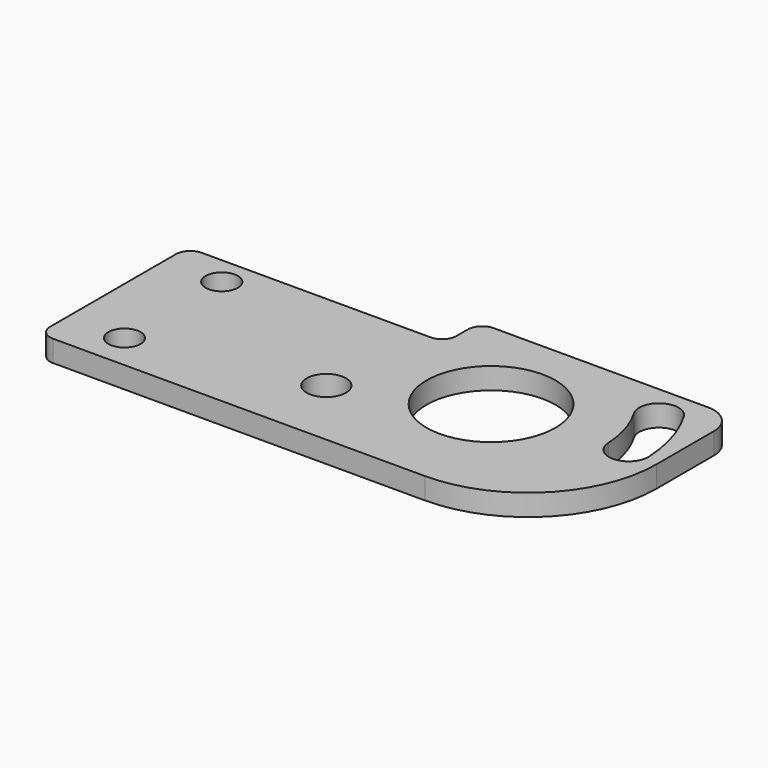
from build123d import *

# Parameters (mm, degrees)
F0_R     = 7.14375
F0_R_2   = 8.7249
F0_R_3   = 7.1501
F0_R_4   = 28.575
F1_DEPTH = 9.525


with BuildPart() as f1:
    # F0 (on Top) → F1 (new body)
    with BuildSketch(Plane.XY):
        with BuildLine():
            Line((92.67836, 53.964474), (-2.57164, 53.964474))
            ThreePointArc((-2.57164, 53.964474), (-7.061768, 52.104602), (-8.92164, 47.614474))
            Line((-8.92164, 47.614474), (-8.92164, 41.264474))
            ThreePointArc((-8.92164, 41.264474), (-10.781512, 36.774346), (-15.27164, 34.914474))
            Line((-15.27164, 34.914474), (-116.87164, 34.914474))
            ThreePointArc((-116.87164, 34.914474), (-121.361768, 33.054602), (-123.22164, 28.564474))
            Line((-123.22164, 28.564474), (-123.22164, -41.285526))
            ThreePointArc((-123.22164, -41.285526), (-121.361768, -45.775654), (-116.87164, -47.635526))
            Line((-116.87164, -47.635526), (48.22836, -47.635526))
            ThreePointArc((48.22836, -47.635526), (88.639513, -30.896679), (105.37836, 9.514474))
            Line((105.37836, 9.514474), (105.37836, 41.264474))
            ThreePointArc((105.37836, 41.264474), (101.658616, 50.24473), (92.67836, 53.964474))
        make_face()
        with Locations((-97.82164, -31.760526)):
            Circle(F0_R, mode=Mode.SUBTRACT)
        with Locations((-20.908152, -15.885526)):
            Circle(F0_R_2, mode=Mode.SUBTRACT)
        with Locations((-97.82164, 22.208124)):
            Circle(F0_R_3, mode=Mode.SUBTRACT)
        with Locations((32.35336, 8.879474)):
            Circle(F0_R_4, mode=Mode.SUBTRACT)
        with BuildLine():
            ThreePointArc((75.345637, 34.431857), (78.388096, 46.38975), (90.345989, 43.34729))
            ThreePointArc((90.345989, 43.34729), (96.885024, 28.547715), (99.712158, 12.61681))
            ThreePointArc((99.712158, 12.61681), (99.730708, 12.341037), (99.740518, 12.064815))
            ThreePointArc((99.740518, 12.064815), (91.442159, 3.175006), (82.31173, 11.20786))
            ThreePointArc((82.31173, 11.20786), (82.296282, 11.44533), (82.287313, 11.683133))
            ThreePointArc((82.287313, 11.683133), (80.188464, 23.476152), (75.345637, 34.431857))
        make_face(mode=Mode.SUBTRACT)
    extrude(amount=F1_DEPTH)


solid = f1.part
